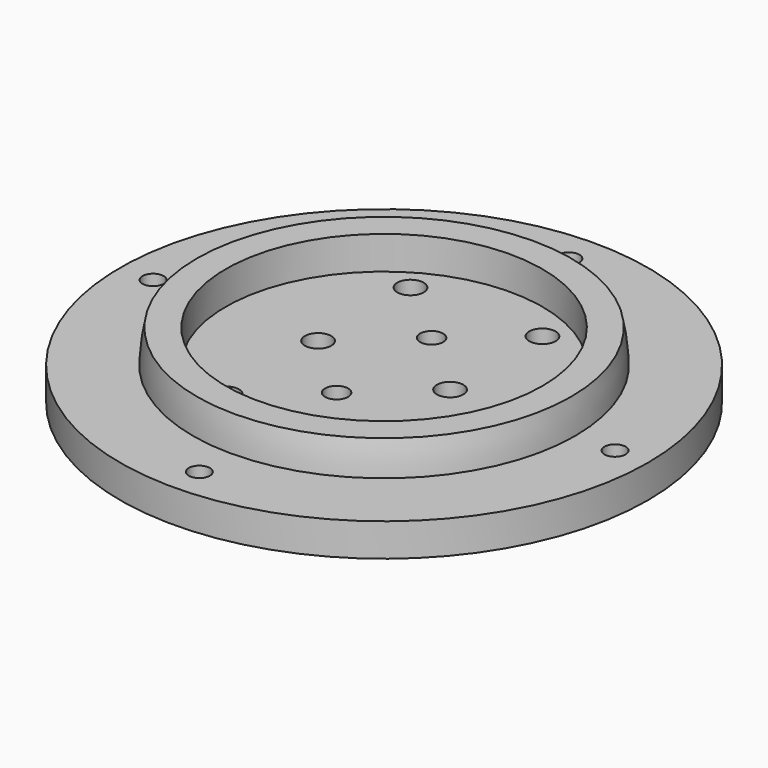
from build123d import *

# Parameters (mm, degrees)
CYLINDER047_R     = 1.6
CYLINDER047_DEPTH = 10
CYLINDER048_R     = 1.6
CYLINDER048_DEPTH = 10
CYLINDER049_R     = 1.6
CYLINDER049_DEPTH = 10
CYLINDER046_R     = 1.6
CYLINDER046_DEPTH = 10
CYLINDER043_R     = 2
CYLINDER043_DEPTH = 10
CYLINDER042_R     = 2
CYLINDER042_DEPTH = 10
CYLINDER045_R     = 1.75
CYLINDER045_DEPTH = 10
CYLINDER044_R     = 1.75
CYLINDER044_DEPTH = 10
CYLINDER036_R     = 2
CYLINDER036_DEPTH = 10
CYLINDER037_R     = 2
CYLINDER037_DEPTH = 10
CYLINDER038_R     = 2
CYLINDER038_DEPTH = 10
CYLINDER039_R     = 2
CYLINDER039_DEPTH = 10
CYLINDER041_R     = 24
CYLINDER041_DEPTH = 7
CYLINDER040_R     = 40
CYLINDER040_DEPTH = 5


with BuildPart() as obj1:
    # Cylinder047 → Cylinder047 (new body)
    with BuildSketch(Plane(origin=(40, 0, 65), x_dir=(1, 0, 0), z_dir=(0, 0, 1))):
        Circle(CYLINDER047_R)
    extrude(amount=CYLINDER047_DEPTH)


with BuildPart() as obj2:
    # Cylinder048 → Cylinder048 (new body)
    with BuildSketch(Plane(origin=(5, 35, 65), x_dir=(1, 0, 0), z_dir=(0, 0, 1))):
        Circle(CYLINDER048_R)
    extrude(amount=CYLINDER048_DEPTH)


with BuildPart() as obj3:
    # Cylinder049 → Cylinder049 (new body)
    with BuildSketch(Plane(origin=(5, -35, 65), x_dir=(1, 0, 0), z_dir=(0, 0, 1))):
        Circle(CYLINDER049_R)
    extrude(amount=CYLINDER049_DEPTH)


with BuildPart() as fusion021:
    # Cylinder046 → Cylinder046 (new body)
    with BuildSketch(Plane(origin=(-30, 0, 65), x_dir=(1, 0, 0), z_dir=(0, 0, 1))):
        Circle(CYLINDER046_R)
    extrude(amount=CYLINDER046_DEPTH)

    # Fusion021: union obj1, obj2, obj3
    add(obj1.part)
    add(obj2.part)
    add(obj3.part)


with BuildPart() as wirecut003:
    # Cylinder043 → Cylinder043 (new body)
    with BuildSketch(Plane(origin=(15, 0, 70), x_dir=(1, 0, 0), z_dir=(0, 0, 1))):
        Circle(CYLINDER043_R)
    extrude(amount=CYLINDER043_DEPTH)


with BuildPart() as wirecuts001:
    # Cylinder042 → Cylinder042 (new body)
    with BuildSketch(Plane(origin=(-5, 0, 70), x_dir=(1, 0, 0), z_dir=(0, 0, 1))):
        Circle(CYLINDER042_R)
    extrude(amount=CYLINDER042_DEPTH)

    # Fusion017: union wireCUt003
    add(wirecut003.part)


with BuildPart() as m3cuts003:
    # Cylinder045 → Cylinder045 (new body)
    with BuildSketch(Plane(origin=(5, 9, 70), x_dir=(1, 0, 0), z_dir=(0, 0, 1))):
        Circle(CYLINDER045_R)
    extrude(amount=CYLINDER045_DEPTH)


with BuildPart() as m3cute001:
    # Cylinder044 → Cylinder044 (new body)
    with BuildSketch(Plane(origin=(5, -9, 70), x_dir=(1, 0, 0), z_dir=(0, 0, 1))):
        Circle(CYLINDER044_R)
    extrude(amount=CYLINDER044_DEPTH)

    # Fusion018: union m3Cuts003
    add(m3cuts003.part)


with BuildPart() as cylinder036:
    # Cylinder036 → Cylinder036 (new body)
    with BuildSketch(Plane(origin=(0, -21, 0), x_dir=(1, 0, 0), z_dir=(0, 0, 1))):
        Circle(CYLINDER036_R)
    extrude(amount=CYLINDER036_DEPTH)


with BuildPart() as m3heatsetcuts003:
    # Cylinder037 → Cylinder037 (new body)
    with BuildSketch(Plane(origin=(20, -21, 0), x_dir=(1, 0, 0), z_dir=(0, 0, 1))):
        Circle(CYLINDER037_R)
    extrude(amount=CYLINDER037_DEPTH)

    # Fusion014: union Cylinder036
    add(cylinder036.part)


with BuildPart() as m3heatsetcuts003_1:
    # Fusion014 placement: moved
    add(m3heatsetcuts003.part.moved(Location((-5, 38.5, 70))))


with BuildPart() as cylinder038:
    # Cylinder038 → Cylinder038 (new body)
    with BuildSketch(Plane(origin=(0, -21, 0), x_dir=(1, 0, 0), z_dir=(0, 0, 1))):
        Circle(CYLINDER038_R)
    extrude(amount=CYLINDER038_DEPTH)


with BuildPart() as basecuts001:
    # Cylinder039 → Cylinder039 (new body)
    with BuildSketch(Plane(origin=(20, -21, 0), x_dir=(1, 0, 0), z_dir=(0, 0, 1))):
        Circle(CYLINDER039_R)
    extrude(amount=CYLINDER039_DEPTH)

    # Fusion015: union Cylinder038
    add(cylinder038.part)


with BuildPart() as basecuts001_1:
    # Fusion015 placement: moved
    add(basecuts001.part.moved(Location((-5, 3.5, 70))))

    # Fusion016: union m3HeatSetCuts003
    add(m3heatsetcuts003_1.part)

    # Fusion019: union wireCuts001, m3Cute001
    add(wirecuts001.part)
    add(m3cute001.part)


with BuildPart() as basecut001:
    # Cylinder041 → Cylinder041 (new body)
    with BuildSketch(Plane(origin=(5, 0, 74), x_dir=(1, 0, 0), z_dir=(0, 0, 1))):
        Circle(CYLINDER041_R)
    extrude(amount=CYLINDER041_DEPTH)


with BuildPart() as cut006:
    # Sphere002 → Sphere002 (revolve)
    with BuildSketch(Plane(origin=(5, 0, 74), x_dir=(1, 0, 0), z_dir=(0, -1, 0))):
        with BuildLine():
            ThreePointArc((29, 0), (28.841135, 3.031325), (28.36628, 6.029439))
            Line((28.36628, 6.029439), (0, 6.029439))
            Line((0, 6.029439), (0, 0))
            Line((0, 0), (29, 0))
        make_face()
    revolve(axis=Axis((5, 0, 74), (0, 0, 1)))

    # Cut006: cut baseCut001
    add(basecut001.part, mode=Mode.SUBTRACT)


with BuildPart() as lightmodule001:
    # Cylinder040 → Cylinder040 (new body)
    with BuildSketch(Plane(origin=(5, 0, 70), x_dir=(1, 0, 0), z_dir=(0, 0, 1))):
        Circle(CYLINDER040_R)
    extrude(amount=CYLINDER040_DEPTH)

    # Fusion020: union Cut006
    add(cut006.part)

    # Cut007: cut baseCUts001
    add(basecuts001_1.part, mode=Mode.SUBTRACT)

    # Cut008: cut Fusion021
    add(fusion021.part, mode=Mode.SUBTRACT)


with BuildPart() as lightmodule001_1:
    # Cut008 placement: moved
    add(lightmodule001.part.moved(Location((-5, -208, 0))))


solid = lightmodule001_1.part
